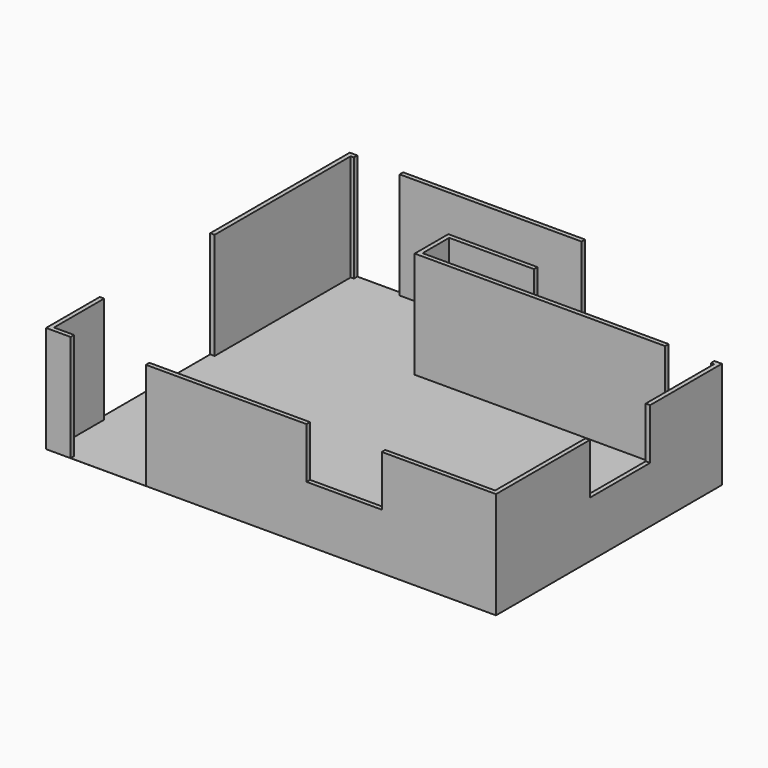
from build123d import *

# Parameters (mm, degrees)
F1_DEPTH  = 2700
F3_DEPTH  = 1
F4_W      = 1200
F4_H      = 2320
F4_H_2    = 1400
F5_DEPTH  = 70
F6_W      = 1200
F6_H      = 1400
F7_DEPTH  = 70
F8_W      = 2200
F8_H      = 2100
F9_DEPTH  = 70
F10_W     = 730
F10_H     = 2040
F11_DEPTH = 1620
F12_W     = 70
F12_H     = 880
F13_DEPTH = 2700
F15_DEPTH = 1000


with BuildPart() as f1:
    # F0 (on Top) → F1 (new body)
    with BuildSketch(Plane.XY):
        Polygon((2330, 4960), (3680, 4960), (3680, 5980), (-70, 5980), (-70, -70), (7100, -70), (7100, 4430), (2330, 4430), align=None)
        Polygon((7030, 0), (0, 0), (0, 5910), (3610, 5910), (3610, 5030), (2260, 5030), (2260, 4360), (7030, 4360), align=None, mode=Mode.SUBTRACT)
    extrude(amount=F1_DEPTH)

    # F2 (on Top) → F3 (join)
    with BuildSketch(Plane.XY):
        Polygon((3680, 5980), (-70, 5980), (-70, -70), (7100, -70), (7100, 4430), (2330, 4430), (2330, 4960), (3680, 4960), align=None)
    extrude(amount=-F3_DEPTH)

    # F4 (on face) → F5 (cut)
    with BuildSketch(Plane.XZ.offset(70)):
        with Locations((920, 1160)):
            Rectangle(F4_W, F4_H)
        with Locations((4680, 1590)):
            Rectangle(F4_W, F4_H_2)
    extrude(amount=-F5_DEPTH, mode=Mode.SUBTRACT)

    # F6 (on face) → F7 (cut)
    with BuildSketch(Plane.YZ.offset(7100)):
        with Locations((2400, 1590)):
            Rectangle(F6_W, F6_H)
    extrude(amount=-F7_DEPTH, mode=Mode.SUBTRACT)

    # F8 (on face) → F9 (cut)
    with BuildSketch(Plane(origin=(-70, 0, 0), x_dir=(0, -1, 0), z_dir=(-1, 0, 0))):
        with Locations((-2100, 1050)):
            Rectangle(F8_W, F8_H)
    extrude(amount=-F9_DEPTH, mode=Mode.SUBTRACT)

    # F10 (on face) → F11 (cut, through all)
    with BuildSketch(Plane.XZ.offset(-4360)):
        with Locations((6615, 1020)):
            Rectangle(F10_W, F10_H)
        with Locations((415, 1020)):
            Rectangle(F10_W, F10_H)
    extrude(amount=-F11_DEPTH, mode=Mode.SUBTRACT)

    # F12 (on face) → F13 (cut, through all)
    with BuildSketch(Plane.XY.offset(2700)):
        with Locations((3645, 5470)):
            Rectangle(F12_W, F12_H)
    extrude(amount=-F13_DEPTH, mode=Mode.SUBTRACT)

    # F14 (on face) → F15 (cut)
    with BuildSketch(Plane.XY.offset(2700)):
        Polygon((-70, 5980), (-70, -70), (7100, -70), (7100, 4430), (3680, 5980), align=None)
    extrude(amount=-F15_DEPTH, mode=Mode.SUBTRACT)


solid = f1.part
